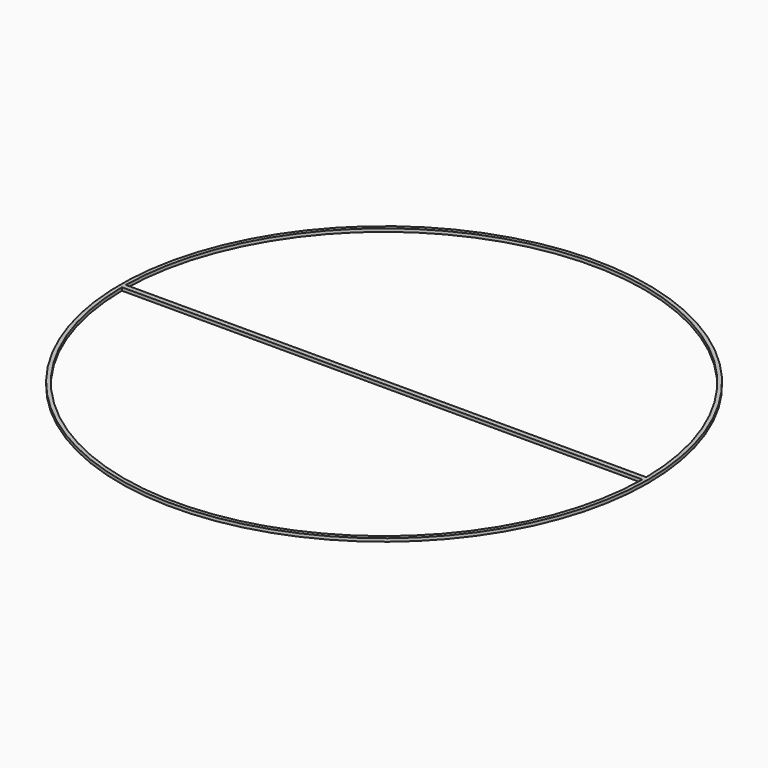
from build123d import *

# Parameters (mm, degrees)
F0_R     = 85
F1_DEPTH = 1


with BuildPart() as f1:
    # F0 (on Top) → F1 (new body)
    with BuildSketch(Plane.XY):
        Circle(F0_R)
        with BuildLine():
            ThreePointArc((83.796181, -0.8), (0, -83.8), (-83.796181, -0.8))
            Line((-83.796181, -0.8), (83.796181, -0.8))
        make_face(mode=Mode.SUBTRACT)
        with BuildLine():
            Line((83.796181, 0.8), (-83.796181, 0.8))
            ThreePointArc((-83.796181, 0.8), (0, 83.8), (83.796181, 0.8))
        make_face(mode=Mode.SUBTRACT)
    extrude(amount=F1_DEPTH)


solid = f1.part
